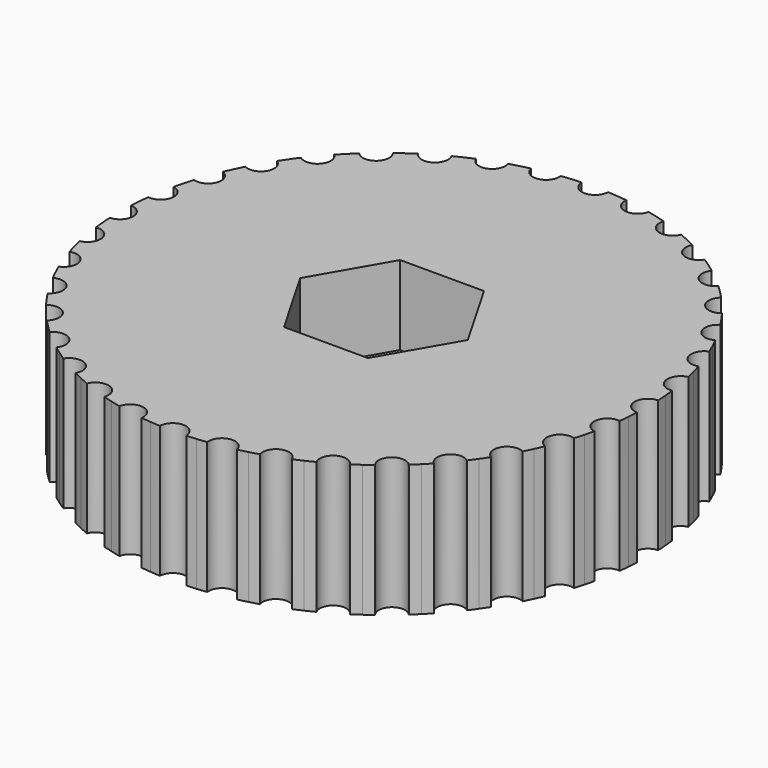
from build123d import *

# Parameters (mm, degrees)
F0_R     = 1.6
F1_DEPTH = 5
F2_R     = 1.6
F3_DEPTH = 3


with BuildPart() as f1:
    # F0 (on Top) → F1 (new body)
    with BuildSketch(Plane.XY):
        with BuildLine():
            ThreePointArc((0.499844, 9.9875), (0, 9.5), (-0.499844, 9.9875))
            ThreePointArc((-0.499844, 9.9875), (-0.68582, 9.976455), (-0.871557, 9.961947))
            ThreePointArc((-0.871557, 9.961947), (-1.056993, 9.943981), (-1.242061, 9.922564))
            ThreePointArc((-1.242061, 9.922564), (-1.649658, 9.355674), (-2.226561, 9.74897))
            ThreePointArc((-2.226561, 9.74897), (-2.407794, 9.705799), (-2.58819, 9.659258))
            ThreePointArc((-2.58819, 9.659258), (-2.767689, 9.609365), (-2.946227, 9.556137))
            ThreePointArc((-2.946227, 9.556137), (-3.249191, 8.92708), (-3.885626, 9.214223))
            ThreePointArc((-3.885626, 9.214223), (-4.056608, 9.140237), (-4.226183, 9.063078))
            ThreePointArc((-4.226183, 9.063078), (-4.39429, 8.982773), (-4.560873, 8.899351))
            ThreePointArc((-4.560873, 8.899351), (-4.75, 8.227241), (-5.426627, 8.399507))
            ThreePointArc((-5.426627, 8.399507), (-5.582165, 8.296954), (-5.735764, 8.19152))
            ThreePointArc((-5.735764, 8.19152), (-5.887373, 8.083244), (-6.036939, 7.972162))
            ThreePointArc((-6.036939, 7.972162), (-6.106482, 7.277422), (-6.802744, 7.329576))
            ThreePointArc((-6.802744, 7.329576), (-6.93811, 7.201571), (-7.071068, 7.071068))
            ThreePointArc((-7.071068, 7.071068), (-7.201571, 6.93811), (-7.329576, 6.802744))
            ThreePointArc((-7.329576, 6.802744), (-7.277422, 6.106482), (-7.972162, 6.036939))
            ThreePointArc((-7.972162, 6.036939), (-8.083244, 5.887373), (-8.19152, 5.735764))
            ThreePointArc((-8.19152, 5.735764), (-8.296954, 5.582165), (-8.399507, 5.426627))
            ThreePointArc((-8.399507, 5.426627), (-8.227241, 4.75), (-8.899351, 4.560873))
            ThreePointArc((-8.899351, 4.560873), (-8.982773, 4.39429), (-9.063078, 4.226183))
            ThreePointArc((-9.063078, 4.226183), (-9.140237, 4.056608), (-9.214223, 3.885626))
            ThreePointArc((-9.214223, 3.885626), (-8.92708, 3.249191), (-9.556137, 2.946227))
            ThreePointArc((-9.556137, 2.946227), (-9.609365, 2.767689), (-9.659258, 2.58819))
            ThreePointArc((-9.659258, 2.58819), (-9.705799, 2.407794), (-9.74897, 2.226561))
            ThreePointArc((-9.74897, 2.226561), (-9.355674, 1.649658), (-9.922564, 1.242061))
            ThreePointArc((-9.922564, 1.242061), (-9.943981, 1.056993), (-9.961947, 0.871557))
            ThreePointArc((-9.961947, 0.871557), (-9.976455, 0.68582), (-9.9875, 0.499844))
            ThreePointArc((-9.9875, 0.499844), (-9.5, 0), (-9.9875, -0.499844))
            ThreePointArc((-9.9875, -0.499844), (-9.976455, -0.68582), (-9.961947, -0.871557))
            ThreePointArc((-9.961947, -0.871557), (-9.943981, -1.056993), (-9.922564, -1.242061))
            ThreePointArc((-9.922564, -1.242061), (-9.355674, -1.649658), (-9.74897, -2.226561))
            ThreePointArc((-9.74897, -2.226561), (-9.705799, -2.407794), (-9.659258, -2.58819))
            ThreePointArc((-9.659258, -2.58819), (-9.609365, -2.767689), (-9.556137, -2.946227))
            ThreePointArc((-9.556137, -2.946227), (-8.92708, -3.249191), (-9.214223, -3.885626))
            ThreePointArc((-9.214223, -3.885626), (-9.140237, -4.056608), (-9.063078, -4.226183))
            ThreePointArc((-9.063078, -4.226183), (-8.982773, -4.39429), (-8.899351, -4.560873))
            ThreePointArc((-8.899351, -4.560873), (-8.227241, -4.75), (-8.399507, -5.426627))
            ThreePointArc((-8.399507, -5.426627), (-8.296954, -5.582165), (-8.19152, -5.735764))
            ThreePointArc((-8.19152, -5.735764), (-8.083244, -5.887373), (-7.972162, -6.036939))
            ThreePointArc((-7.972162, -6.036939), (-7.277422, -6.106482), (-7.329576, -6.802744))
            ThreePointArc((-7.329576, -6.802744), (-7.201571, -6.93811), (-7.071068, -7.071068))
            ThreePointArc((-7.071068, -7.071068), (-6.93811, -7.201571), (-6.802744, -7.329576))
            ThreePointArc((-6.802744, -7.329576), (-6.106482, -7.277422), (-6.036939, -7.972162))
            ThreePointArc((-6.036939, -7.972162), (-5.887373, -8.083244), (-5.735764, -8.19152))
            ThreePointArc((-5.735764, -8.19152), (-5.582165, -8.296954), (-5.426627, -8.399507))
            ThreePointArc((-5.426627, -8.399507), (-4.75, -8.227241), (-4.560873, -8.899351))
            ThreePointArc((-4.560873, -8.899351), (-4.39429, -8.982773), (-4.226183, -9.063078))
            ThreePointArc((-4.226183, -9.063078), (-4.056608, -9.140237), (-3.885626, -9.214223))
            ThreePointArc((-3.885626, -9.214223), (-3.249191, -8.92708), (-2.946227, -9.556137))
            ThreePointArc((-2.946227, -9.556137), (-2.767689, -9.609365), (-2.58819, -9.659258))
            ThreePointArc((-2.58819, -9.659258), (-2.407794, -9.705799), (-2.226561, -9.74897))
            ThreePointArc((-2.226561, -9.74897), (-1.649658, -9.355674), (-1.242061, -9.922564))
            ThreePointArc((-1.242061, -9.922564), (-1.056993, -9.943981), (-0.871557, -9.961947))
            ThreePointArc((-0.871557, -9.961947), (-0.68582, -9.976455), (-0.499844, -9.9875))
            ThreePointArc((-0.499844, -9.9875), (0, -9.5), (0.499844, -9.9875))
            ThreePointArc((0.499844, -9.9875), (0.68582, -9.976455), (0.871557, -9.961947))
            ThreePointArc((0.871557, -9.961947), (1.056993, -9.943981), (1.242061, -9.922564))
            ThreePointArc((1.242061, -9.922564), (1.649658, -9.355674), (2.226561, -9.74897))
            ThreePointArc((2.226561, -9.74897), (2.407794, -9.705799), (2.58819, -9.659258))
            ThreePointArc((2.58819, -9.659258), (2.767689, -9.609365), (2.946227, -9.556137))
            ThreePointArc((2.946227, -9.556137), (3.249191, -8.92708), (3.885626, -9.214223))
            ThreePointArc((3.885626, -9.214223), (4.056608, -9.140237), (4.226183, -9.063078))
            ThreePointArc((4.226183, -9.063078), (4.39429, -8.982773), (4.560873, -8.899351))
            ThreePointArc((4.560873, -8.899351), (4.75, -8.227241), (5.426627, -8.399507))
            ThreePointArc((5.426627, -8.399507), (5.582165, -8.296954), (5.735764, -8.19152))
            ThreePointArc((5.735764, -8.19152), (5.887373, -8.083244), (6.036939, -7.972162))
            ThreePointArc((6.036939, -7.972162), (6.106482, -7.277422), (6.802744, -7.329576))
            ThreePointArc((6.802744, -7.329576), (6.93811, -7.201571), (7.071068, -7.071068))
            ThreePointArc((7.071068, -7.071068), (7.201571, -6.93811), (7.329576, -6.802744))
            ThreePointArc((7.329576, -6.802744), (7.277422, -6.106482), (7.972162, -6.036939))
            ThreePointArc((7.972162, -6.036939), (8.083244, -5.887373), (8.19152, -5.735764))
            ThreePointArc((8.19152, -5.735764), (8.296954, -5.582165), (8.399507, -5.426627))
            ThreePointArc((8.399507, -5.426627), (8.227241, -4.75), (8.899351, -4.560873))
            ThreePointArc((8.899351, -4.560873), (8.982773, -4.39429), (9.063078, -4.226183))
            ThreePointArc((9.063078, -4.226183), (9.140237, -4.056608), (9.214223, -3.885626))
            ThreePointArc((9.214223, -3.885626), (8.92708, -3.249191), (9.556137, -2.946227))
            ThreePointArc((9.556137, -2.946227), (9.609365, -2.767689), (9.659258, -2.58819))
            ThreePointArc((9.659258, -2.58819), (9.705799, -2.407794), (9.74897, -2.226561))
            ThreePointArc((9.74897, -2.226561), (9.355674, -1.649658), (9.922564, -1.242061))
            ThreePointArc((9.922564, -1.242061), (9.943981, -1.056993), (9.961947, -0.871557))
            ThreePointArc((9.961947, -0.871557), (9.976455, -0.68582), (9.9875, -0.499844))
            ThreePointArc((9.9875, -0.499844), (9.5, 0), (9.9875, 0.499844))
            ThreePointArc((9.9875, 0.499844), (9.976455, 0.68582), (9.961947, 0.871557))
            ThreePointArc((9.961947, 0.871557), (9.943981, 1.056993), (9.922564, 1.242061))
            ThreePointArc((9.922564, 1.242061), (9.355674, 1.649658), (9.74897, 2.226561))
            ThreePointArc((9.74897, 2.226561), (9.705799, 2.407794), (9.659258, 2.58819))
            ThreePointArc((9.659258, 2.58819), (9.609365, 2.767689), (9.556137, 2.946227))
            ThreePointArc((9.556137, 2.946227), (8.92708, 3.249191), (9.214223, 3.885626))
            ThreePointArc((9.214223, 3.885626), (9.140237, 4.056608), (9.063078, 4.226183))
            ThreePointArc((9.063078, 4.226183), (8.982773, 4.39429), (8.899351, 4.560873))
            ThreePointArc((8.899351, 4.560873), (8.227241, 4.75), (8.399507, 5.426627))
            ThreePointArc((8.399507, 5.426627), (8.296954, 5.582165), (8.19152, 5.735764))
            ThreePointArc((8.19152, 5.735764), (8.083244, 5.887373), (7.972162, 6.036939))
            ThreePointArc((7.972162, 6.036939), (7.277422, 6.106482), (7.329576, 6.802744))
            ThreePointArc((7.329576, 6.802744), (7.201571, 6.93811), (7.071068, 7.071068))
            ThreePointArc((7.071068, 7.071068), (6.93811, 7.201571), (6.802744, 7.329576))
            ThreePointArc((6.802744, 7.329576), (6.106482, 7.277422), (6.036939, 7.972162))
            ThreePointArc((6.036939, 7.972162), (5.887373, 8.083244), (5.735764, 8.19152))
            ThreePointArc((5.735764, 8.19152), (5.582165, 8.296954), (5.426627, 8.399507))
            ThreePointArc((5.426627, 8.399507), (4.75, 8.227241), (4.560873, 8.899351))
            ThreePointArc((4.560873, 8.899351), (4.39429, 8.982773), (4.226183, 9.063078))
            ThreePointArc((4.226183, 9.063078), (4.056608, 9.140237), (3.885626, 9.214223))
            ThreePointArc((3.885626, 9.214223), (3.249191, 8.92708), (2.946227, 9.556137))
            ThreePointArc((2.946227, 9.556137), (2.767689, 9.609365), (2.58819, 9.659258))
            ThreePointArc((2.58819, 9.659258), (2.407794, 9.705799), (2.226561, 9.74897))
            ThreePointArc((2.226561, 9.74897), (1.649658, 9.355674), (1.242061, 9.922564))
            ThreePointArc((1.242061, 9.922564), (1.056993, 9.943981), (0.871557, 9.961947))
            ThreePointArc((0.871557, 9.961947), (0.68582, 9.976455), (0.499844, 9.9875))
        make_face()
        Circle(F0_R, mode=Mode.SUBTRACT)
    extrude(amount=F1_DEPTH)

    # F2 (on face) → F3 (cut)
    with BuildSketch(Plane.XY.offset(5)):
        Polygon((1.587713, 2.75), (-1.587713, 2.75), (-3.175426, 0), (-1.587713, -2.75), (1.587713, -2.75), (3.175426, 0), align=None)
        Circle(F2_R, mode=Mode.SUBTRACT)
    extrude(amount=-F3_DEPTH, mode=Mode.SUBTRACT)


solid = f1.part
